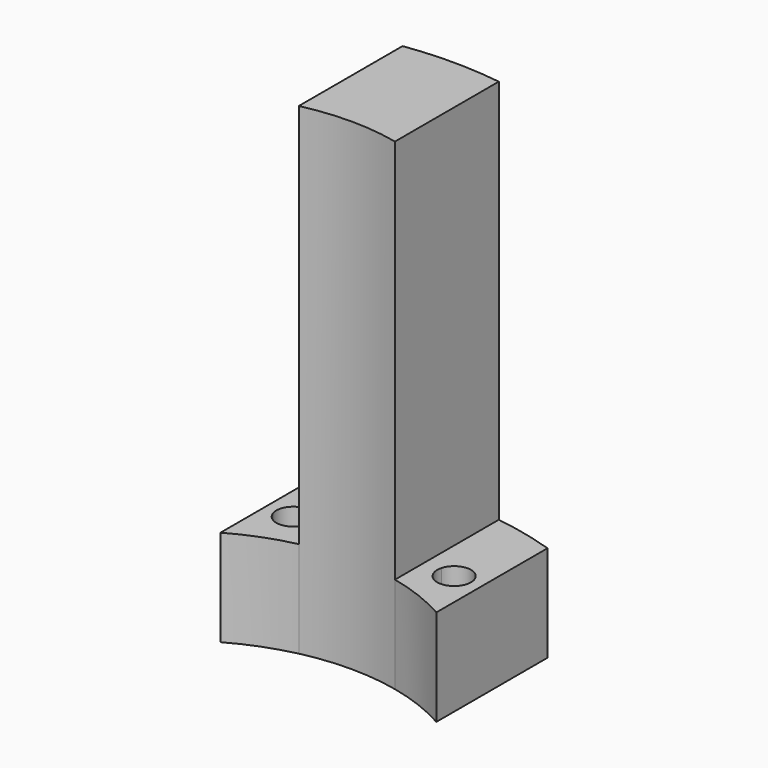
from build123d import *

# Parameters (mm, degrees)
F1_DEPTH = 10
F2_DEPTH = 50


with BuildPart() as f1:
    # F0 (on Top) → F1 (new body)
    with BuildSketch(Plane.XY):
        with BuildLine():
            Line((-11.1938343047, 34.2154654149), (-11.1938343047, 24.5702680807))
            ThreePointArc((-11.1938343047, 24.5702680807), (-10.5947366889, 24.8344831735), (-9.9894082697, 25.0840930157))
            ThreePointArc((-9.9894082697, 25.0840930157), (-8.8842385883, 27.3428748435), (-6.6624588878, 26.1650843983))
            ThreePointArc((-6.6624588878, 26.1650843983), (-5.8286474975, 26.3633622353), (-4.988963041, 26.5350758012))
            Line((-4.988963041, 26.5350758012), (-4.988963041, 35.6526331114))
            ThreePointArc((-4.988963041, 35.6526331114), (-8.1232441321, 35.0715398118), (-11.1938343047, 34.2154654149))
        make_face()
        with BuildLine():
            ThreePointArc((-4.988963041, 26.5350758012), (0, 27), (4.988963041, 26.5350758012))
            Line((4.988963041, 26.5350758012), (4.988963041, 35.6526331114))
            ThreePointArc((4.988963041, 35.6526331114), (0, 36), (-4.988963041, 35.6526331114))
            Line((-4.988963041, 35.6526331114), (-4.988963041, 26.5350758012))
        make_face()
        with BuildLine():
            ThreePointArc((9.9894082697, 25.0840930157), (10.5947366889, 24.8344831735), (11.1938343047, 24.5702680807))
            Line((11.1938343047, 24.5702680807), (11.1938343047, 34.2154654149))
            ThreePointArc((11.1938343047, 34.2154654149), (8.1232441321, 35.0715398118), (4.988963041, 35.6526331114))
            Line((4.988963041, 35.6526331114), (4.988963041, 26.5350758012))
            ThreePointArc((4.988963041, 26.5350758012), (5.8286474975, 26.3633622353), (6.6624588878, 26.1650843983))
            ThreePointArc((6.6624588878, 26.1650843983), (8.5891721662, 27.4111900636), (10.0934588481, 25.67852594))
            ThreePointArc((10.0934588481, 25.67852594), (10.0672499445, 25.3767905326), (9.9894082697, 25.0840930157))
        make_face()
        with BuildLine():
            ThreePointArc((4.988963041, 22.1962327384), (8.1792145377, 21.2288235554), (11.1938343047, 19.8055692561))
            Line((11.1938343047, 19.8055692561), (11.1938343047, 24.5702680807))
            ThreePointArc((11.1938343047, 24.5702680807), (10.5947366889, 24.8344831735), (9.9894082697, 25.0840930157))
            ThreePointArc((9.9894082697, 25.0840930157), (7.802679108, 24.0141770365), (6.6624588878, 26.1650843983))
            ThreePointArc((6.6624588878, 26.1650843983), (5.8286474975, 26.3633622353), (4.988963041, 26.5350758012))
            Line((4.988963041, 26.5350758012), (4.988963041, 22.1962327384))
        make_face()
        with BuildLine():
            Line((-11.1938343047, 24.5702680807), (-11.1938343047, 19.8055692561))
            ThreePointArc((-11.1938343047, 19.8055692561), (-8.1792145377, 21.2288235554), (-4.988963041, 22.1962327384))
            Line((-4.988963041, 22.1962327384), (-4.988963041, 26.5350758012))
            ThreePointArc((-4.988963041, 26.5350758012), (-5.8286474975, 26.3633622353), (-6.6624588878, 26.1650843983))
            ThreePointArc((-6.6624588878, 26.1650843983), (-6.6107947245, 25.9242392581), (-6.5934588481, 25.67852594))
            ThreePointArc((-6.5934588481, 25.67852594), (-8.0417234407, 23.9547348436), (-9.9894082697, 25.0840930157))
            ThreePointArc((-9.9894082697, 25.0840930157), (-10.5947366889, 24.8344831735), (-11.1938343047, 24.5702680807))
        make_face()
        with BuildLine():
            ThreePointArc((-4.988963041, 22.1962327384), (0, 22.75), (4.988963041, 22.1962327384))
            Line((4.988963041, 22.1962327384), (4.988963041, 26.5350758012))
            ThreePointArc((4.988963041, 26.5350758012), (0, 27), (-4.988963041, 26.5350758012))
            Line((-4.988963041, 26.5350758012), (-4.988963041, 22.1962327384))
        make_face()
    extrude(amount=F1_DEPTH)

    # F0 (on Top) → F2 (join)
    with BuildSketch(Plane.XY):
        with BuildLine():
            ThreePointArc((-4.988963041, 26.5350758012), (0, 27), (4.988963041, 26.5350758012))
            Line((4.988963041, 26.5350758012), (4.988963041, 35.6526331114))
            ThreePointArc((4.988963041, 35.6526331114), (0, 36), (-4.988963041, 35.6526331114))
            Line((-4.988963041, 35.6526331114), (-4.988963041, 26.5350758012))
        make_face()
        with BuildLine():
            ThreePointArc((-4.988963041, 22.1962327384), (0, 22.75), (4.988963041, 22.1962327384))
            Line((4.988963041, 22.1962327384), (4.988963041, 26.5350758012))
            ThreePointArc((4.988963041, 26.5350758012), (0, 27), (-4.988963041, 26.5350758012))
            Line((-4.988963041, 26.5350758012), (-4.988963041, 22.1962327384))
        make_face()
    extrude(amount=F2_DEPTH)


solid = f1.part
